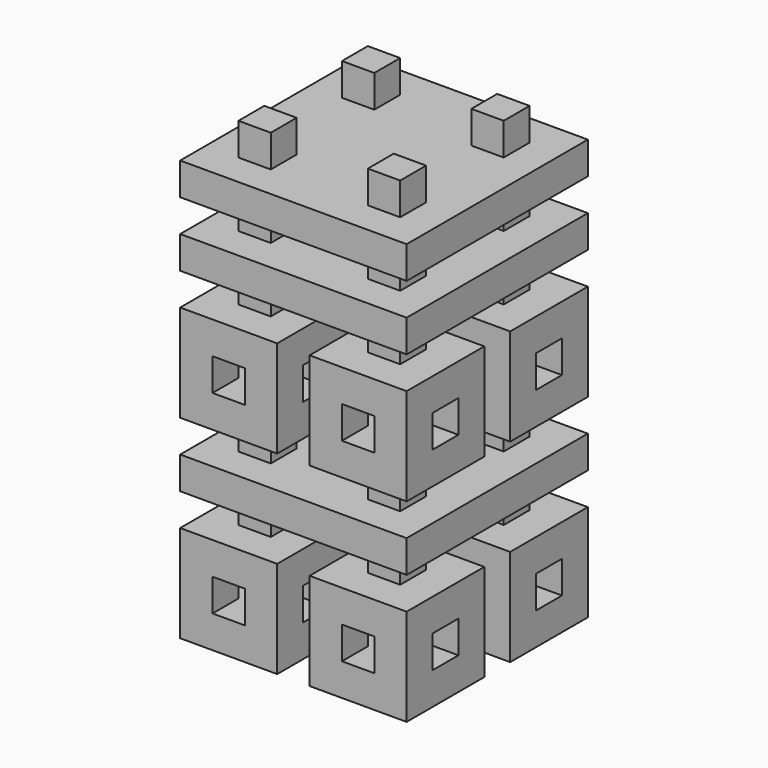
from build123d import *

# Parameters (mm, degrees)
F0_W     = 10
F0_H     = 10
F0_W_2   = 30
F1_DEPTH = 70
F2_W     = 10
F2_H     = 10
F2_W_2   = 30
F2_H_2   = 30
F3_DEPTH = 100


with BuildPart() as f1:
    # F0 (on Front) → F1 (new body)
    with BuildSketch(Plane.XZ):
        Polygon((-15, 70), (-25, 70), (-25, 60), (-35, 60), (-35, 50), (-25, 50), (-25, 40), (-35, 40), (-35, 30), (-25, 30), (-25, 20), (-35, 20), (-35, -10), (-25, -10), (-25, -20), (-35, -20), (-35, -30), (-25, -30), (-25, -40), (-35, -40), (-35, -70), (-5, -70), (-5, -40), (-15, -40), (-15, -30), (15, -30), (15, -40), (5, -40), (5, -70), (35, -70), (35, -40), (25, -40), (25, -30), (35, -30), (35, -20), (25, -20), (25, -10), (35, -10), (35, 20), (25, 20), (25, 30), (35, 30), (35, 40), (25, 40), (25, 50), (35, 50), (35, 60), (25, 60), (25, 70), (15, 70), (15, 60), (-15, 60), align=None)
        with Locations((-20, -55)):
            Rectangle(F0_W, F0_H, mode=Mode.SUBTRACT)
        with Locations((20, -55)):
            Rectangle(F0_W, F0_H, mode=Mode.SUBTRACT)
        with Locations((-20, 5)):
            Rectangle(F0_W, F0_H, mode=Mode.SUBTRACT)
        Polygon((-5, -10), (-5, 20), (-15, 20), (-15, 30), (15, 30), (15, 20), (5, 20), (5, -10), (15, -10), (15, -20), (-15, -20), (-15, -10), align=None, mode=Mode.SUBTRACT)
        with Locations((20, 5)):
            Rectangle(F0_W, F0_H, mode=Mode.SUBTRACT)
        with Locations((0, 45)):
            Rectangle(F0_W_2, F0_H, mode=Mode.SUBTRACT)
    extrude(amount=F1_DEPTH)

    # F2 (on face) → F3 (cut)
    with BuildSketch(Plane.YZ.offset(35)):
        Polygon((-20, 30), (-50, 30), (-50, 20), (-40, 20), (-40, -10), (-50, -10), (-50, -20), (-20, -20), (-20, -10), (-30, -10), (-30, 20), (-20, 20), align=None)
        with Locations((-5, -15)):
            Rectangle(F2_W, F2_H)
        with Locations((-15, 5)):
            Rectangle(F2_W, F2_H)
        with Locations((-55, 5)):
            Rectangle(F2_W, F2_H)
        with Locations((-65, 25)):
            Rectangle(F2_W, F2_H)
        with Locations((-5, 25)):
            Rectangle(F2_W, F2_H)
        with Locations((-5, 45)):
            Rectangle(F2_W, F2_H)
        with Locations((-35, 45)):
            Rectangle(F2_W_2, F2_H)
        with Locations((-65, 45)):
            Rectangle(F2_W, F2_H)
        with Locations((-65, 65)):
            Rectangle(F2_W, F2_H)
        with Locations((-35, 65)):
            Rectangle(F2_W_2, F2_H)
        with Locations((-5, 65)):
            Rectangle(F2_W, F2_H)
        with Locations((-65, -15)):
            Rectangle(F2_W, F2_H)
        with Locations((-65, -35)):
            Rectangle(F2_W, F2_H)
        Polygon((-40, -40), (-30, -40), (-20, -40), (-20, -30), (-50, -30), (-50, -40), align=None)
        with Locations((-5, -35)):
            Rectangle(F2_W, F2_H)
        with Locations((-15, -55)):
            Rectangle(F2_W, F2_H)
        with Locations((-55, -55)):
            Rectangle(F2_W, F2_H)
        with Locations((-35, -55)):
            Rectangle(F2_W, F2_H_2)
    extrude(amount=-F3_DEPTH, mode=Mode.SUBTRACT)


solid = f1.part
